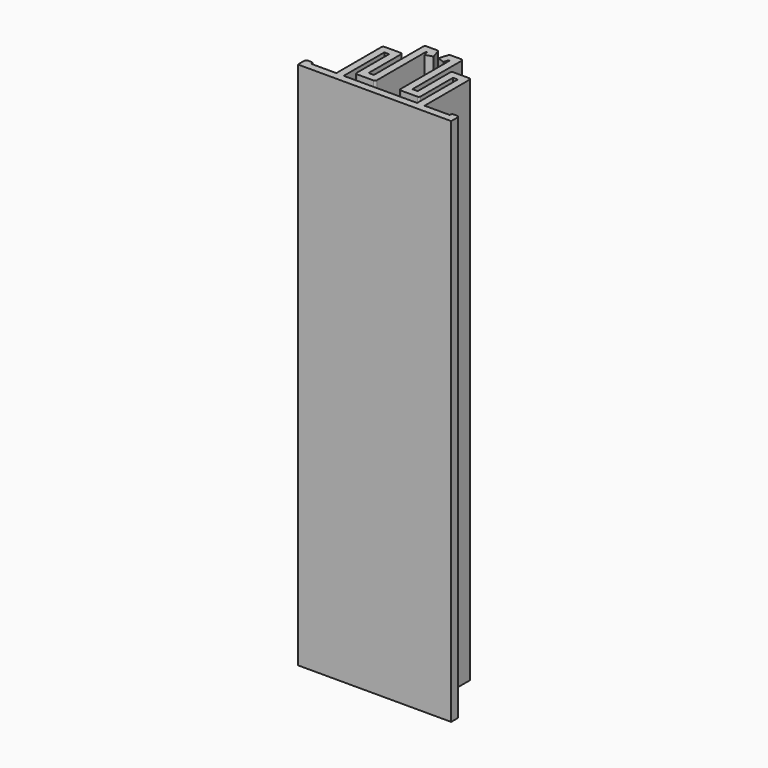
from build123d import *

# Parameters (mm, degrees)
F1_DEPTH = 50
F2_R     = 0.35
F3_R     = 0.35
F4_R     = 0.35
F5_R     = 0.35


with BuildPart() as f1:
    # F0 (on Top) → F1 (new body, symmetric)
    with BuildSketch(Plane.XY):
        Polygon((1.0409717248, 16.8190124818), (0.4387088702, 14.9118471891), (1.7819859847, 14.5164243155), (2.0670138885, 15.4190124818), (2.2409717248, 15.4190124818), (2.2409717248, 3.4190124818), (6.0409717248, 3.4190124818), (6.0409717248, 11.4190124818), (6.9409717248, 11.4190124818), (6.9409717248, 1.8190124818), (-6.9409717248, 1.8190124818), (-6.9409717248, 11.4190124818), (-6.0409717248, 11.4190124818), (-6.0409717248, 3.4190124818), (-2.2409717248, 3.4190124818), (-2.2409717248, 15.4190124818), (-2.0670138885, 15.4190124818), (-1.7819859847, 14.5164243155), (-0.4387088702, 14.9118471891), (-1.0409717248, 16.8190124818), (-3.6409717248, 16.8190124818), (-3.6409717248, 4.8190124818), (-4.6409717248, 4.8190124818), (-4.6409717248, 12.8190124818), (-8.3409717248, 12.8190124818), (-8.3409717248, 1.8190124818), (-13.0909717248, 1.8190124818), (-13.0909717248, 2.3190124818), (-14.4909717248, 2.3190124818), (-14.4909717248, 0.4190124818), (-6.9409717248, 0.4190124818), (6.9409717248, 0.4190124818), (14.4909717248, 0.4190124818), (14.4909717248, 2.3190124818), (13.0909717248, 2.3190124818), (13.0909717248, 1.8190124818), (8.3409717248, 1.8190124818), (8.3409717248, 12.8190124818), (4.6409717248, 12.8190124818), (4.6409717248, 4.8190124818), (3.6409717248, 4.8190124818), (3.6409717248, 16.8190124818), align=None)
    extrude(amount=F1_DEPTH, both=True)

    # F2
    f2_edges = [f1.edges().sort_by_distance(p)[0] for p in [
        (14.490972, 2.319012, 0),
    ]]
    fillet(f2_edges, radius=F2_R)

    # F3
    f3_edges = [f1.edges().sort_by_distance(p)[0] for p in [
        (13.090972, 2.319012, 0),
        (8.340972, 12.819012, 0),
        (4.640972, 12.819012, 0),
        (3.640972, 16.819012, 0),
        (1.040972, 16.819012, 0),
    ]]
    fillet(f3_edges, radius=F3_R)

    # F4
    f4_edges = [f1.edges().sort_by_distance(p)[0] for p in [
        (6.040972, 3.419012, 0),
        (2.240972, 3.419012, 0),
        (-2.240972, 3.419012, 0),
    ]]
    fillet(f4_edges, radius=F4_R)

    # F5
    f5_edges = [f1.edges().sort_by_distance(p)[0] for p in [
        (-6.040972, 3.419012, 0),
        (-8.340972, 12.819012, 0),
        (-14.490972, 2.319012, 0),
        (-3.640972, 16.819012, 0),
        (-1.040972, 16.819012, 0),
        (-4.640972, 12.819012, 0),
        (-13.090972, 2.319012, 0),
    ]]
    fillet(f5_edges, radius=F5_R)


solid = f1.part
